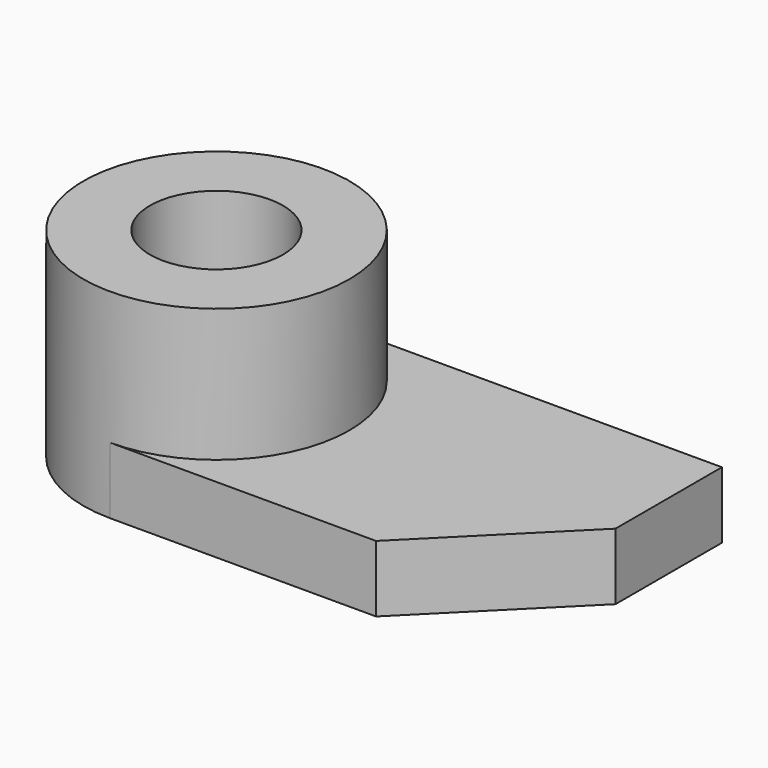
from build123d import *

# Parameters (mm, degrees)
F0_R     = 12.7
F0_R_2   = 6.35
F1_DEPTH = 19.05
F3_W     = 25.4
F3_H     = 6.35
F6_DEPTH = 19.051


with BuildPart() as f1:
    # F0 (on Top) → F1 (new body)
    with BuildSketch(Plane.XY):
        Circle(F0_R)
        Circle(F0_R_2, mode=Mode.SUBTRACT)
    extrude(amount=F1_DEPTH)

    # F3 (on offset) → F4 (join, up to the next surface of F1)
    with BuildSketch(Plane.YZ.offset(38.1)):
        with Locations((0, 3.175)):
            Rectangle(F3_W, F3_H)
    extrude(until=Until.NEXT, dir=(-1, 0, 0))

    # F5 (on face) → F6 (cut, through all)
    with BuildSketch(Plane(origin=(0, 0, 0), x_dir=(1, 0, 0), z_dir=(0, 0, -1))):
        Polygon((25.4, 12.7), (38.1, 0), (38.1, 12.7), align=None)
    extrude(amount=-F6_DEPTH, mode=Mode.SUBTRACT)


solid = f1.part
